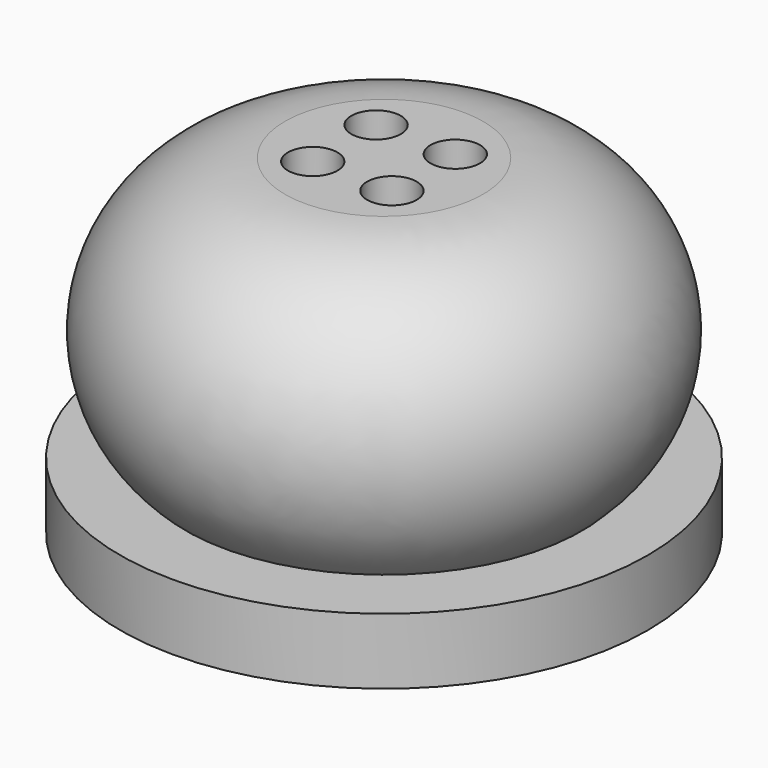
from build123d import *

# Parameters (mm, degrees)
F3_D     = 19.05
F3_DEPTH = 50.8
F3_TIP   = 5.7231973962


with BuildPart() as f1:
    # F0 (on Front) → F1 (revolve)
    with BuildSketch(Plane.XZ):
        with BuildLine():
            Line((-101.6, 0), (0, 0))
            Line((0, 0), (0, 127))
            Line((0, 127), (-38.1, 127))
            ThreePointArc((-38.1, 127), (-91.5651749151, 89.1056905932), (-76.2, 25.4))
            Line((-76.2, 25.4), (-101.6, 25.4))
            Line((-101.6, 25.4), (-101.6, 0))
        make_face()
    revolve(axis=Axis((0, 0, 63.5), (0, 0, 1)))

    # F3
    with Locations(Plane.XY.offset(127)):
        with Locations((-15.24, 15.24), (15.24, 15.24), (15.24, -15.24), (-15.24, -15.24)):
            Hole(F3_D / 2, depth=F3_DEPTH)
            with Locations((0, 0, -(F3_DEPTH + F3_TIP / 2))):  # 118° drill point
                Cone(0, F3_D / 2, F3_TIP, mode=Mode.SUBTRACT)


solid = f1.part
